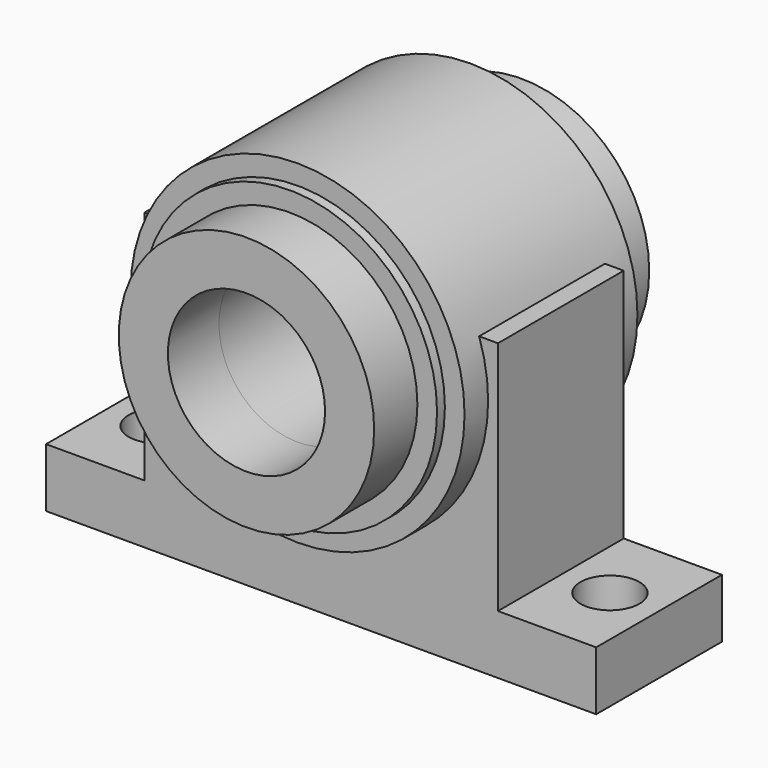
from build123d import *

# Parameters (mm, degrees)
SKETCH003_R     = 13
PAD003_DEPTH    = 17.5
SKETCH002_R     = 15
PAD002_DEPTH    = 12
SKETCH005_R     = 8
POCKET001_DEPTH = 35.001
SKETCH001_R     = 17
PAD001_DEPTH    = 11
PAD_DEPTH       = 8
SKETCH004_R     = 8
POCKET_DEPTH    = 22.001
SKETCH006_R     = 3
POCKET002_DEPTH = 6.001
SKETCH007_R     = 3
POCKET003_DEPTH = 6.001


with BuildPart() as pad003:
    # Sketch003 → Pad003 (new body, symmetric)
    with BuildSketch(Plane.XZ):
        with Locations((28, 24.5)):
            Circle(SKETCH003_R)
    extrude(amount=PAD003_DEPTH, both=True)


with BuildPart() as obj1:
    # Sketch002 → Pad002 (new body, symmetric)
    with BuildSketch(Plane.XZ):
        with Locations((28, 24.5)):
            Circle(SKETCH002_R)
    extrude(amount=PAD002_DEPTH, both=True)

    # Fusion001: union Pad003
    add(pad003.part)

    # Sketch005 → Pocket001 (cut, through all)
    with BuildSketch(Plane.XZ.offset(17.5)):
        with Locations((28, 24.5)):
            Circle(SKETCH005_R)
    extrude(amount=-POCKET001_DEPTH, mode=Mode.SUBTRACT)


with BuildPart() as cylindre_alu:
    # Sketch001 → Pad001 (new body, symmetric)
    with BuildSketch(Plane.XZ):
        with Locations((28, 24.5)):
            Circle(SKETCH001_R)
    extrude(amount=PAD001_DEPTH, both=True)


with BuildPart() as alu:
    # Sketch → Pad (new body, symmetric)
    with BuildSketch(Plane.XZ):
        Polygon((0, 0), (56, 0), (56, 6), (46, 6), (46, 30), (10, 30), (10, 6), (0, 6), align=None)
    extrude(amount=PAD_DEPTH, both=True)

    # Fusion: union cylindre alu
    add(cylindre_alu.part)

    # Sketch004 → Pocket (cut, through all)
    with BuildSketch(Plane.XZ.offset(11)):
        with Locations((28, 24.5)):
            Circle(SKETCH004_R)
    extrude(amount=-POCKET_DEPTH, mode=Mode.SUBTRACT)

    # Sketch006 → Pocket002 (cut, through all)
    with BuildSketch(Plane.XY.offset(6)):
        with Locations((5, 0)):
            Circle(SKETCH006_R)
    extrude(amount=-POCKET002_DEPTH, mode=Mode.SUBTRACT)

    # Sketch007 → Pocket003 (cut, through all)
    with BuildSketch(Plane.XY.offset(6)):
        with Locations((51, 0)):
            Circle(SKETCH007_R)
    extrude(amount=-POCKET003_DEPTH, mode=Mode.SUBTRACT)


solid = Compound([obj1.part, alu.part])
